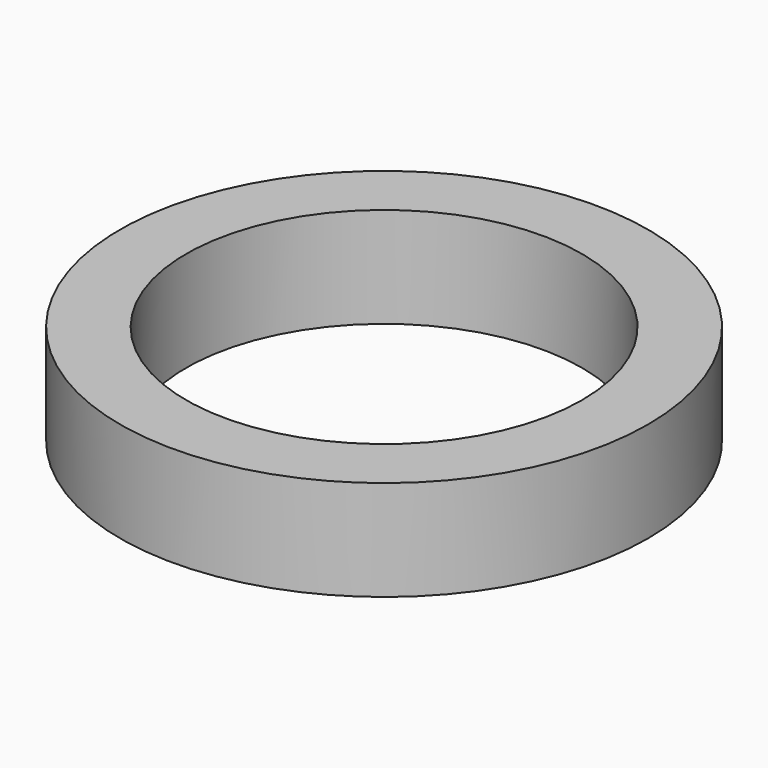
from build123d import *

# Parameters (mm, degrees)
BINDER_FACE1_W = 12.5
BINDER_FACE1_H = 19


with BuildPart() as part:
    # Binder Face1 → Revolution (revolve)
    with BuildSketch(Plane(origin=(43.75, 0, 9.5), x_dir=(-1, 0, 0), z_dir=(0, -1, 0))):
        Rectangle(BINDER_FACE1_W, BINDER_FACE1_H)
    revolve(axis=Axis((0, 0, 0), (0, 0, 1)))


solid = part.part
